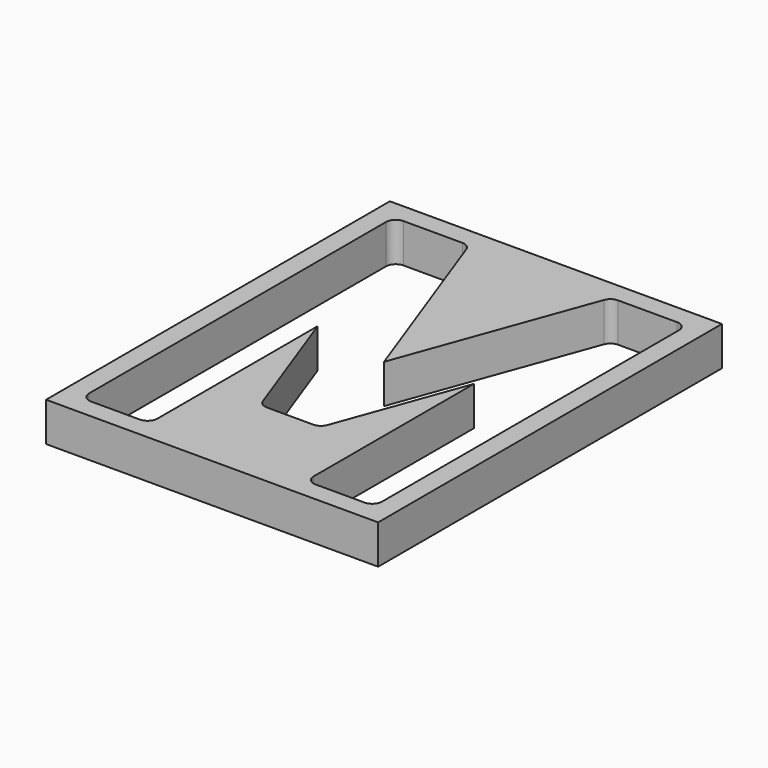
from build123d import *

# Parameters (mm, degrees)
F0_W     = 215.9
F0_H     = 279.4
F1_DEPTH = 25.4


with BuildPart() as f1:
    # F0 (on Top) → F1 (new body)
    with BuildSketch(Plane.XY):
        Rectangle(F0_W, F0_H)
        with BuildLine():
            Line((-95.25, -120.65), (-95.25, 120.65))
            ThreePointArc((-95.25, 120.65), (-93.390128, 125.140128), (-88.9, 127))
            Line((-88.9, 127), (-50.670538, 127))
            ThreePointArc((-50.670538, 127), (-47.028327, 125.851615), (-44.703489, 122.821828))
            Line((-44.703489, 122.821828), (0, 0))
            Line((0, 0), (44.703489, 122.821828))
            ThreePointArc((44.703489, 122.821828), (47.028327, 125.851615), (50.670538, 127))
            Line((50.670538, 127), (88.9, 127))
            ThreePointArc((88.9, 127), (93.390128, 125.140128), (95.25, 120.65))
            Line((95.25, 120.65), (95.25, -120.65))
            ThreePointArc((95.25, -120.65), (93.390128, -125.140128), (88.9, -127))
            Line((88.9, -127), (57.15, -127))
            ThreePointArc((57.15, -127), (52.659872, -125.140128), (50.8, -120.65))
            Line((50.8, -120.65), (50.8, 9.608747))
            Line((50.8, 9.608747), (21.034386, -72.171606))
            ThreePointArc((21.034386, -72.171606), (18.709548, -75.201393), (15.067338, -76.349778))
            Line((15.067338, -76.349778), (0, -76.349778))
            Line((0, -76.349778), (-15.067338, -76.349778))
            ThreePointArc((-15.067338, -76.349778), (-18.709548, -75.201393), (-21.034386, -72.171606))
            Line((-21.034386, -72.171606), (-50.8, 9.608747))
            Line((-50.8, 9.608747), (-50.8, -120.65))
            ThreePointArc((-50.8, -120.65), (-52.659872, -125.140128), (-57.15, -127))
            Line((-57.15, -127), (-88.9, -127))
            ThreePointArc((-88.9, -127), (-93.390128, -125.140128), (-95.25, -120.65))
        make_face(mode=Mode.SUBTRACT)
    extrude(amount=F1_DEPTH)


solid = f1.part
